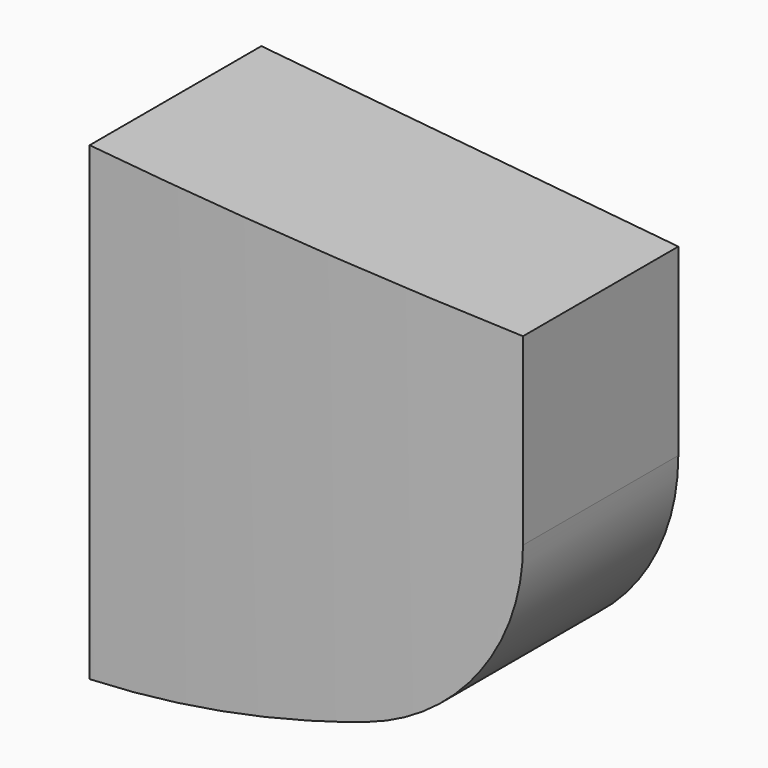
from build123d import *

# Parameters (mm, degrees)
F5_DEPTH = 65
F6_DEPTH = 100


with BuildPart() as f5:
    # F0 (on Front) → F5 (new body)
    with BuildSketch(Plane.XZ):
        with BuildLine():
            Line((0, 22.5), (-102, 32.5))
            Line((-102, 32.5), (-102, -82.5))
            ThreePointArc((-102, -82.5), (-68.454124, -78.918769), (-35.66207, -70.992093))
            ThreePointArc((-35.66207, -70.992093), (-9.875393, -52.596787), (0, -22.5))
            Line((0, -22.5), (0, 22.5))
        make_face()
    extrude(amount=F5_DEPTH)

    # F4 (on Top) → F6 (intersect, symmetric)
    with BuildSketch(Plane.XY):
        with BuildLine():
            Line((0, 0), (-102, 0))
            Line((-102, 0), (-102, -52.5))
            ThreePointArc((-102, -52.5), (-50.938762, -51.24925), (0, -47.5))
            Line((0, -47.5), (0, -22.5))
            Line((0, -22.5), (0, 0))
        make_face()
    extrude(amount=F6_DEPTH, both=True, mode=Mode.INTERSECT)


solid = f5.part
